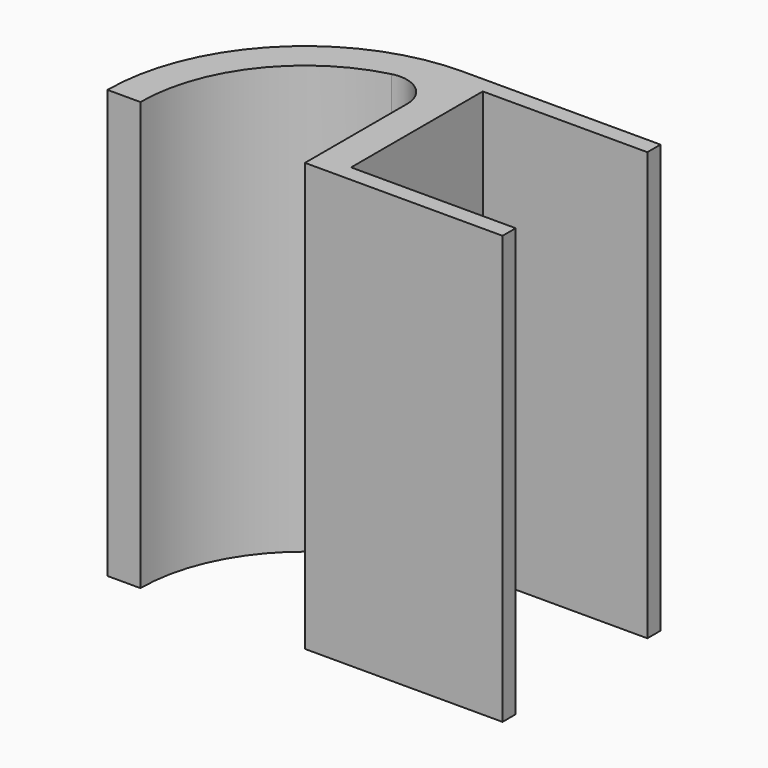
from build123d import *

# Parameters (mm, degrees)
CYLINDER001_W     = 10
CYLINDER001_H     = 26
CYLINDER001_ANGLE = 90
BOX001_W          = 10
BOX001_H          = 10
BOX001_DEPTH      = 26
CYLINDER_W        = 12
CYLINDER_H        = 26
CYLINDER_ANGLE    = 90
BOX_W             = 12
BOX_H             = 12
BOX_DEPTH         = 26
FILLET_R          = 2


with BuildPart() as cylinder001:
    # Cylinder001 → Cylinder001 (revolve)
    with BuildSketch(Plane.YZ):
        with Locations((5, 13)):
            Rectangle(CYLINDER001_W, CYLINDER001_H)
    revolve(axis=Axis((0, 0, 0), (0, 0, 1)), revolution_arc=CYLINDER001_ANGLE)


with BuildPart() as cube001:
    # Box001 → Box001 (new body)
    with BuildSketch(Plane(origin=(2, 1, 0), x_dir=(1, 0, 0), z_dir=(0, 0, 1))):
        with Locations((5, 5)):
            Rectangle(BOX001_W, BOX001_H)
    extrude(amount=BOX001_DEPTH)


with BuildPart() as cylinder:
    # Cylinder → Cylinder (revolve)
    with BuildSketch(Plane.YZ):
        with Locations((6, 13)):
            Rectangle(CYLINDER_W, CYLINDER_H)
    revolve(axis=Axis((0, 0, 0), (0, 0, 1)), revolution_arc=CYLINDER_ANGLE)


with BuildPart() as fillet_body:
    # Box → Box (new body)
    with BuildSketch(Plane.XY):
        with Locations((6, 6)):
            Rectangle(BOX_W, BOX_H)
    extrude(amount=BOX_DEPTH)

    # Fusion: union Cylinder
    add(cylinder.part)

    # Cut: cut Cube001
    add(cube001.part, mode=Mode.SUBTRACT)

    # Cut001: cut Cylinder001
    add(cylinder001.part, mode=Mode.SUBTRACT)

    # Fillet
    fillet_edges = [fillet_body.edges().sort_by_distance(p)[0] for p in [
        (0, 10, 13),
    ]]
    fillet(fillet_edges, radius=FILLET_R)


solid = fillet_body.part
